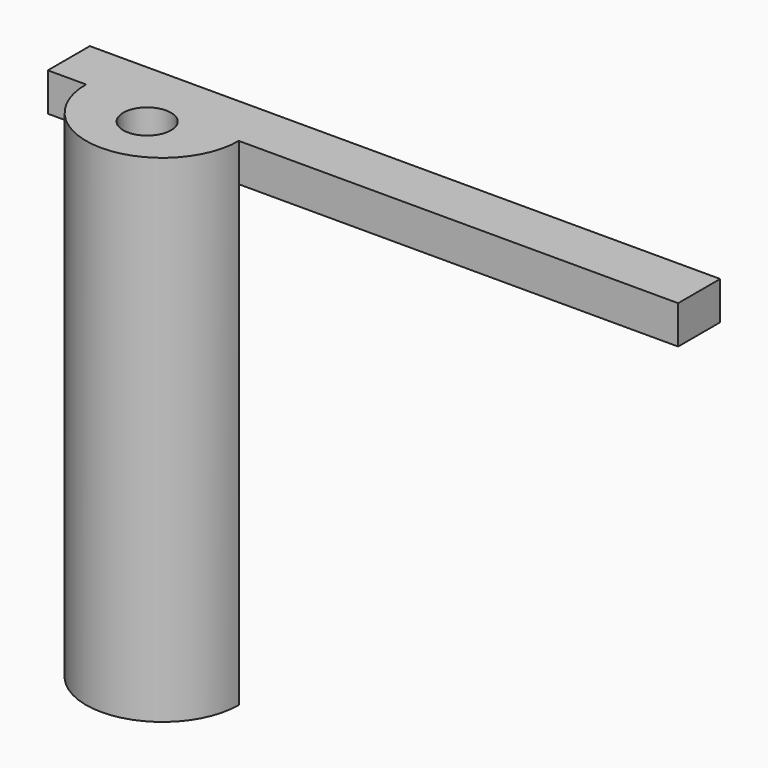
from build123d import *

# Parameters (mm, degrees)
CYLINDER004_R     = 1.25
CYLINDER004_DEPTH = 10
BOX005_W          = 33
BOX005_H          = 2.75
BOX005_DEPTH      = 2
CYLINDER_W        = 4
CYLINDER_H        = 26
CYLINDER_ANGLE    = 180


with BuildPart() as obj1:
    # Cylinder004 → Cylinder004 (new body)
    with BuildSketch(Plane(origin=(10, -1, 4), x_dir=(1, 0, 0), z_dir=(0, 0, 1))):
        Circle(CYLINDER004_R)
    extrude(amount=CYLINDER004_DEPTH)


with BuildPart() as s013:
    # Box005 → Box005 (new body)
    with BuildSketch(Plane(origin=(4, 0, 10), x_dir=(1, 0, 0), z_dir=(0, 0, 1))):
        with Locations((16.5, 1.375)):
            Rectangle(BOX005_W, BOX005_H)
    extrude(amount=BOX005_DEPTH)


with BuildPart() as obj2:
    # Cylinder → Cylinder (revolve)
    with BuildSketch(Plane(origin=(10, 0, -14), x_dir=(-1, 0, 0), z_dir=(0, 1, 0))):
        with Locations((2, 13)):
            Rectangle(CYLINDER_W, CYLINDER_H)
    revolve(axis=Axis((10, 0, -14), (0, 0, 1)), revolution_arc=CYLINDER_ANGLE)

    # Fusion009: union S013
    add(s013.part)

    # Cut015: cut obj1
    add(obj1.part, mode=Mode.SUBTRACT)


with BuildPart() as obj2_1:
    # Cut015 placement: moved
    add(obj2.part.moved(Location((6, 0, 0))))


solid = obj2_1.part
